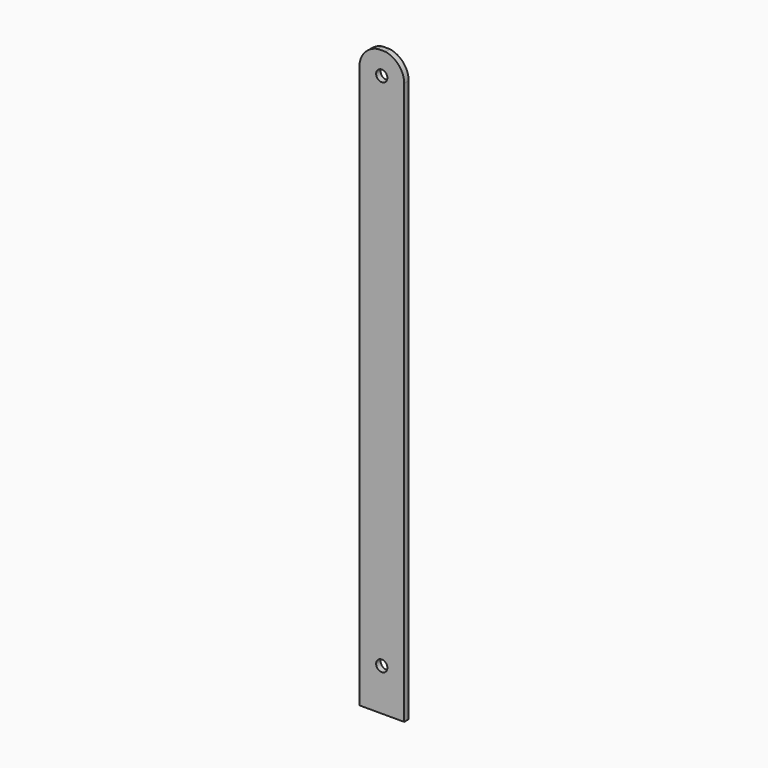
from build123d import *

# Parameters (mm, degrees)
F0_W     = 8
F0_H     = 100
F1_DEPTH = 1
F2_R     = 1
F3_DEPTH = 1.001


with BuildPart() as f1:
    # F0 (on Front) → F1 (new body)
    with BuildSketch(Plane.XZ):
        with Locations((0, -2)):
            Rectangle(F0_W, F0_H)
        with BuildLine():
            Line((-4, 48), (4, 48))
            Line((4, 48), (4, 48.120951))
            ThreePointArc((4, 48.120951), (3.045296, 50.654667), (0.695559, 52))
            Line((0.695559, 52), (-0.695559, 52))
            ThreePointArc((-0.695559, 52), (-3.045296, 50.654667), (-4, 48.120951))
            Line((-4, 48.120951), (-4, 48))
        make_face()
    extrude(amount=F1_DEPTH)

    # F2 (on face) → F3 (cut, through all)
    with BuildSketch(Plane.XZ.offset(1)):
        with Locations((0, -44.5)):
            Circle(F2_R)
        with Locations((0, 48)):
            Circle(F2_R)
    extrude(amount=-F3_DEPTH, mode=Mode.SUBTRACT)


solid = f1.part
